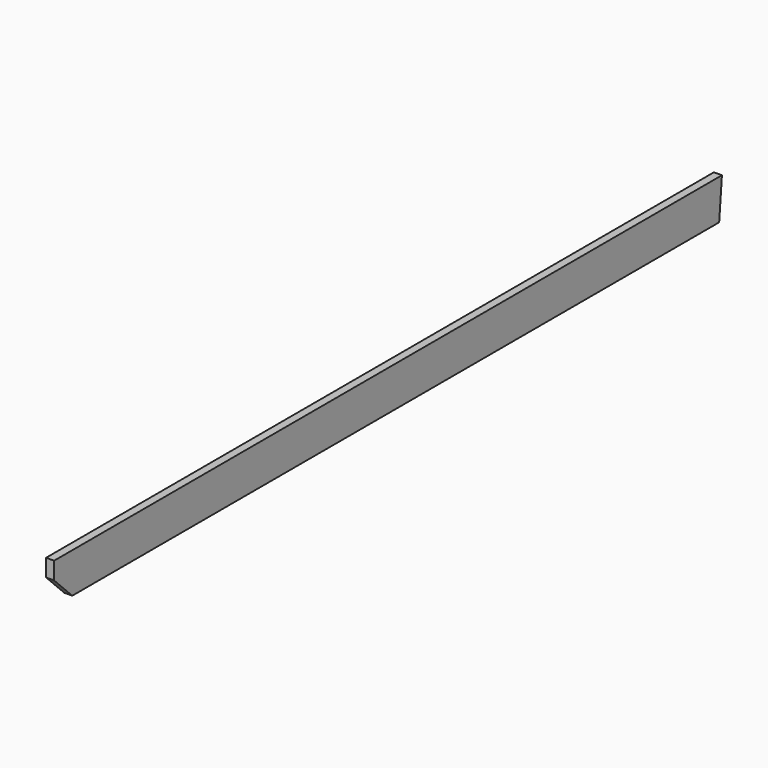
from build123d import *

# Parameters (mm, degrees)
F0_W     = 38.1
F0_H     = 190.5
F1_DEPTH = 4267.2
F3_DEPTH = 38.101
F5_DEPTH = 38.101


with BuildPart() as f1:
    # F0 (on Front) → F1 (new body)
    with BuildSketch(Plane.XZ):
        with Locations((19.05, 95.25)):
            Rectangle(F0_W, F0_H)
    extrude(amount=F1_DEPTH)

    # F2 (on face) → F3 (cut, through all)
    with BuildSketch(Plane.YZ.offset(38.1)):
        Polygon((0, 0), (0, 190.5), (-16.264627, 0), align=None)
    extrude(amount=-F3_DEPTH, mode=Mode.SUBTRACT)

    # F4 (on face) → F5 (cut, through all)
    with BuildSketch(Plane.YZ.offset(38.1)):
        Polygon((-3968.75, 107.95), (-3968.75, 190.5), (-4267.2, 190.5), (-4267.2, 0), (-3860.8, 0), align=None)
    extrude(amount=-F5_DEPTH, mode=Mode.SUBTRACT)


solid = f1.part
